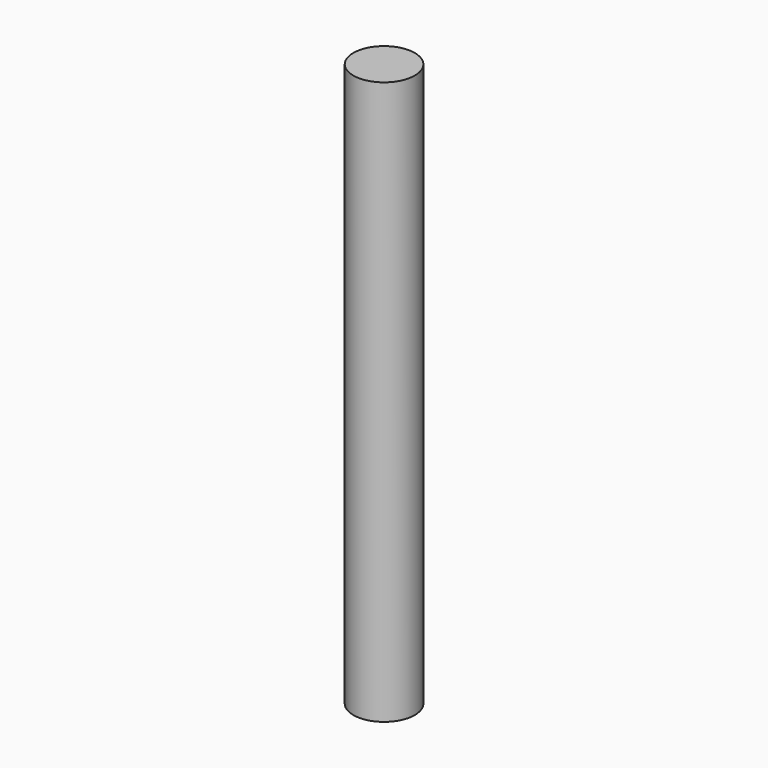
from build123d import *

# Parameters (mm, degrees)
SKETCH_R  = 6
PAD_DEPTH = 110


with BuildPart() as part:
    # Sketch → Pad (new body)
    with BuildSketch(Plane.XY):
        Circle(SKETCH_R)
    extrude(amount=PAD_DEPTH)


solid = part.part
